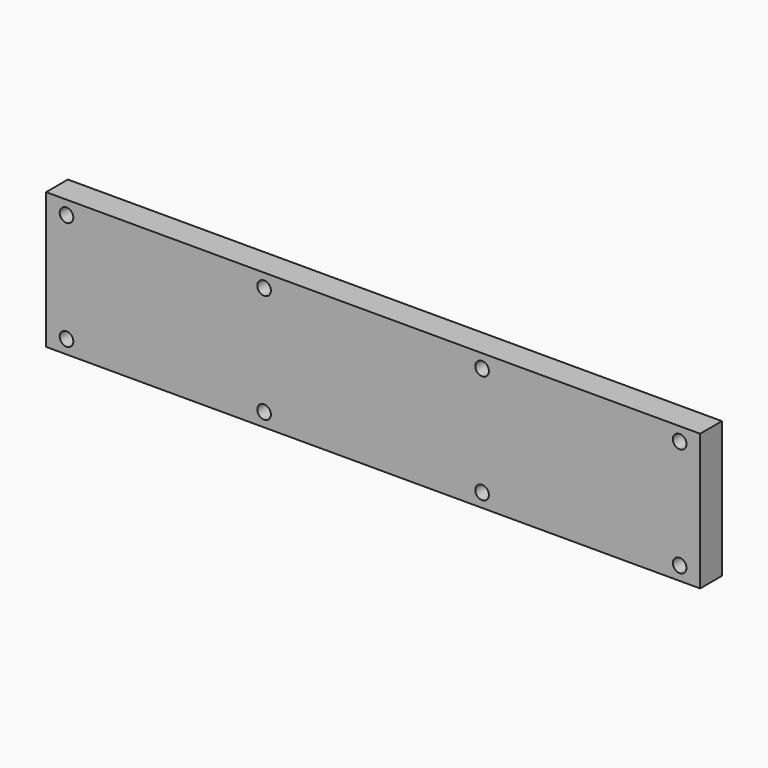
from build123d import *

# Parameters (mm, degrees)
F0_W     = 304.8
F0_H     = 63.5
F0_R     = 3.175
F1_DEPTH = 12.7


with BuildPart() as f1:
    # F0 (on Front) → F1 (new body)
    with BuildSketch(Plane.XZ):
        with Locations((-2.769567, 11.548205)):
            Rectangle(F0_W, F0_H)
        with Locations((-145.644567, -13.851795)):
            Circle(F0_R, mode=Mode.SUBTRACT)
        with Locations((-53.569567, -13.851795)):
            Circle(F0_R, mode=Mode.SUBTRACT)
        with Locations((48.030433, -13.851795)):
            Circle(F0_R, mode=Mode.SUBTRACT)
        with Locations((140.105433, -13.851795)):
            Circle(F0_R, mode=Mode.SUBTRACT)
        with Locations((-145.644567, 36.948205)):
            Circle(F0_R, mode=Mode.SUBTRACT)
        with Locations((-53.569567, 36.948205)):
            Circle(F0_R, mode=Mode.SUBTRACT)
        with Locations((48.030433, 36.948205)):
            Circle(F0_R, mode=Mode.SUBTRACT)
        with Locations((140.105433, 36.948205)):
            Circle(F0_R, mode=Mode.SUBTRACT)
    extrude(amount=F1_DEPTH)


solid = f1.part
